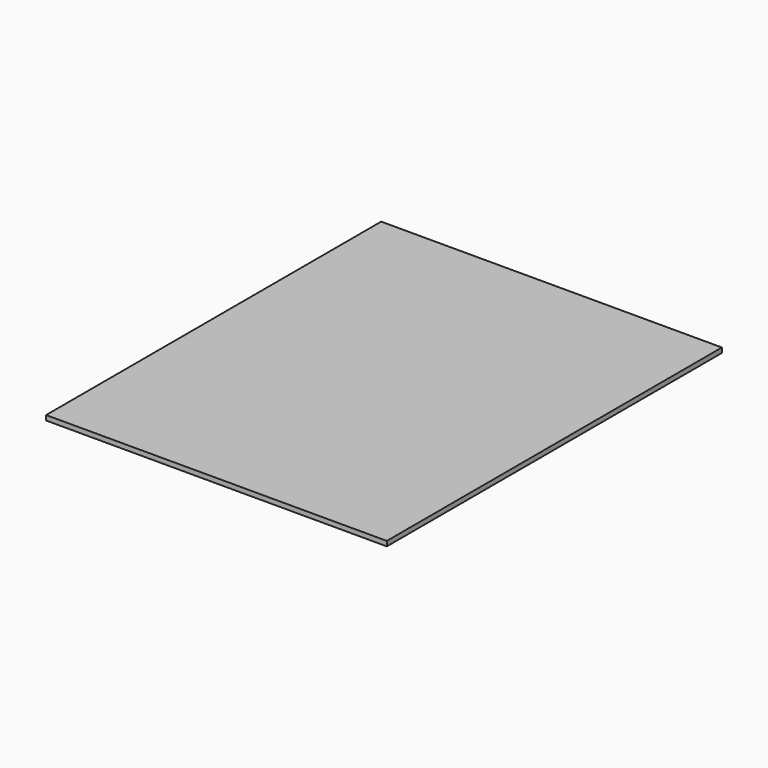
from build123d import *

# Parameters (mm, degrees)
SKETCH_W      = 422.275
SKETCH_H      = 519.1252
EXTRUDE_DEPTH = 5.9944


with BuildPart() as part:
    # Sketch → Extrude (new body)
    with BuildSketch(Plane.XY):
        with Locations((211.1375, 259.5626)):
            Rectangle(SKETCH_W, SKETCH_H)
    extrude(amount=EXTRUDE_DEPTH)


solid = part.part
